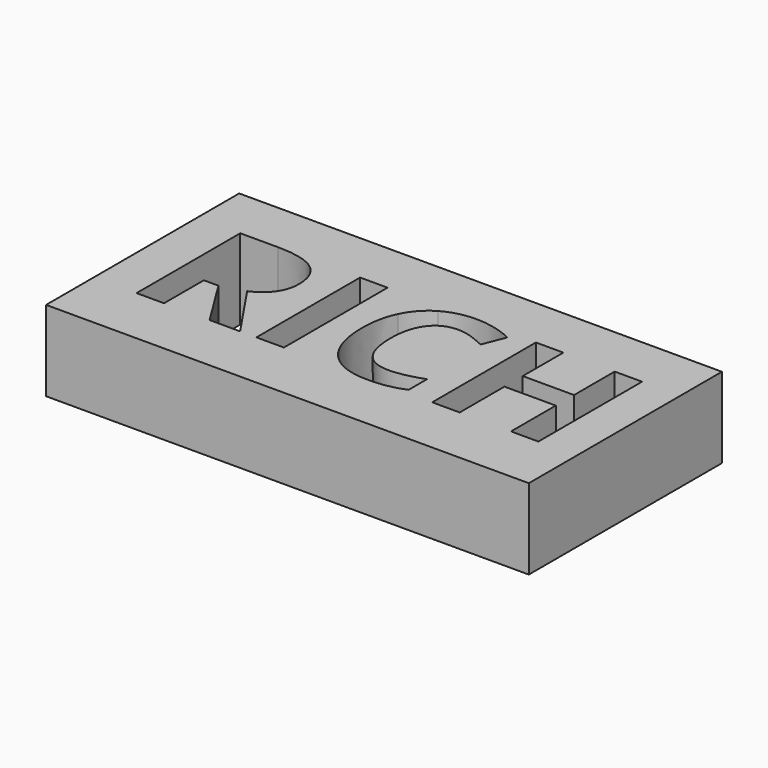
from build123d import *

# Parameters (mm, degrees)
F0_W     = 76.2
F0_H     = 38.1
F0_W_2   = 4.3388303002
F0_H_2   = 20.4583236755
F1_DEPTH = 12.7


with BuildPart() as f1:
    # F0 (on Top) → F1 (new body)
    with BuildSketch(Plane.XY):
        Rectangle(F0_W, F0_H)
        with BuildLine():
            Line((-24.7102881895, -1.7794135219), (-27.0162712695, -1.7794135219))
            Line((-27.0162712695, -1.7794135219), (-27.0162712695, -9.6287112683))
            Line((-27.0162712695, -9.6287112683), (-31.3551015697, -9.6287112683))
            Line((-31.3551015697, -9.6287112683), (-31.3551015697, 10.8296124072))
            Line((-31.3551015697, 10.8296124072), (-25.3953666579, 10.8296124072))
            add(Edge.make_bspline(
                [(-25.3953666579, 10.8296124072), (-21.2222089285, 10.8296124072), (-19.2229439863, 9.3116934477)],
                knots=[0, 0, 0, 1, 1, 1], degree=2))
            add(Edge.make_bspline(
                [(-19.2229439863, 9.3116934477), (-17.223679044, 7.7937744882), (-17.223679044, 4.6997272875)],
                knots=[0, 0, 0, 1, 1, 1], degree=2))
            add(Edge.make_bspline(
                [(-17.223679044, 4.6997272875), (-17.223679044, 2.8952395569), (-18.2154756503, 1.4892615236)],
                knots=[0, 0, 0, 1, 1, 1], degree=2))
            add(Edge.make_bspline(
                [(-18.2154756503, 1.4892615236), (-19.2072722566, 0.0832834903), (-21.0296705354, -0.7137359044)],
                knots=[0, 0, 0, 1, 1, 1], degree=2))
            add(Edge.make_bspline(
                [(-21.0296705354, -0.7137359044), (-16.4087491012, -7.6137745964), (-15.011726342, -9.6287112683)],
                knots=[0, 0, 0, 1, 1, 1], degree=2))
            Line((-15.011726342, -9.6287112683), (-19.8251861693, -9.6287112683))
            Line((-19.8251861693, -9.6287112683), (-24.7102881895, -1.7794135219))
        make_face(mode=Mode.SUBTRACT)
        with Locations((-10.2676698889, 0.6004505694)):
            Rectangle(F0_W_2, F0_H_2, mode=Mode.SUBTRACT)
        with BuildLine():
            add(Edge.make_bspline(
                [(8.0212386365, 7.1064572012), (6.8615306409, 7.5116833541), (5.7421213787, 7.5116833541)],
                knots=[0, 0, 0, 1, 1, 1], degree=2))
            add(Edge.make_bspline(
                [(5.7421213787, 7.5116833541), (3.2928539131, 7.5116833541), (1.9495627985, 5.6713745271)],
                knots=[0, 0, 0, 1, 1, 1], degree=2))
            add(Edge.make_bspline(
                [(1.9495627985, 5.6713745271), (0.6062716839, 3.8310657001), (0.6062716839, 0.5444801063)],
                knots=[0, 0, 0, 1, 1, 1], degree=2))
            add(Edge.make_bspline(
                [(0.6062716839, 0.5444801063), (0.6062716839, -6.2973493041), (5.7421213787, -6.2973493041)],
                knots=[0, 0, 0, 1, 1, 1], degree=2))
            add(Edge.make_bspline(
                [(5.7421213787, -6.2973493041), (7.8958647991, -6.2973493041), (10.9585685404, -5.2227164124)],
                knots=[0, 0, 0, 1, 1, 1], degree=2))
            Line((10.9585685404, -5.2227164124), (10.9585685404, -8.8585576959))
            add(Edge.make_bspline(
                [(10.9585685404, -8.8585576959), (8.4421365191, -9.9108024024), (5.3346564073, -9.9108024024)],
                knots=[0, 0, 0, 1, 1, 1], degree=2))
            add(Edge.make_bspline(
                [(5.3346564073, -9.9108024024), (0.8704522697, -9.9108024024), (-1.493740092, -7.2018319879)],
                knots=[0, 0, 0, 1, 1, 1], degree=2))
            add(Edge.make_bspline(
                [(-1.493740092, -7.2018319879), (-3.8579324537, -4.4928615735), (-3.8579324537, 0.5713459286)],
                knots=[0, 0, 0, 1, 1, 1], degree=2))
            add(Edge.make_bspline(
                [(-3.8579324537, 0.5713459286), (-3.8579324537, 3.7639011443), (-2.6959856395, 6.1639146024)],
                knots=[0, 0, 0, 1, 1, 1], degree=2))
            add(Edge.make_bspline(
                [(-2.6959856395, 6.1639146024), (-1.5340388254, 8.5639280605), (0.6420927803, 9.8422934379)],
                knots=[0, 0, 0, 1, 1, 1], degree=2))
            add(Edge.make_bspline(
                [(0.6420927803, 9.8422934379), (2.8182243859, 11.1206588153), (5.7421213787, 11.1206588153)],
                knots=[0, 0, 0, 1, 1, 1], degree=2))
            add(Edge.make_bspline(
                [(5.7421213787, 11.1206588153), (8.7197500161, 11.1206588153), (11.7287221128, 9.6833373227)],
                knots=[0, 0, 0, 1, 1, 1], degree=2))
            Line((11.7287221128, 9.6833373227), (10.3316993536, 6.1549593283))
            add(Edge.make_bspline(
                [(10.3316993536, 6.1549593283), (9.1809466321, 6.7012310483), (8.0212386365, 7.1064572012)],
                knots=[0, 0, 0, 1, 1, 1], degree=2))
        make_face(mode=Mode.SUBTRACT)
        Polygon((32.0751048621, 10.8296124072), (32.0751048621, -9.6287112683), (27.749707473, -9.6287112683), (27.749707473, -0.7988110083), (19.649662052, -0.7988110083), (19.649662052, -9.6287112683), (15.3108317518, -9.6287112683), (15.3108317518, 10.8296124072), (19.649662052, 10.8296124072), (19.649662052, 2.810164453), (27.749707473, 2.810164453), (27.749707473, 10.8296124072), align=None, mode=Mode.SUBTRACT)
    extrude(amount=F1_DEPTH)


solid = f1.part
